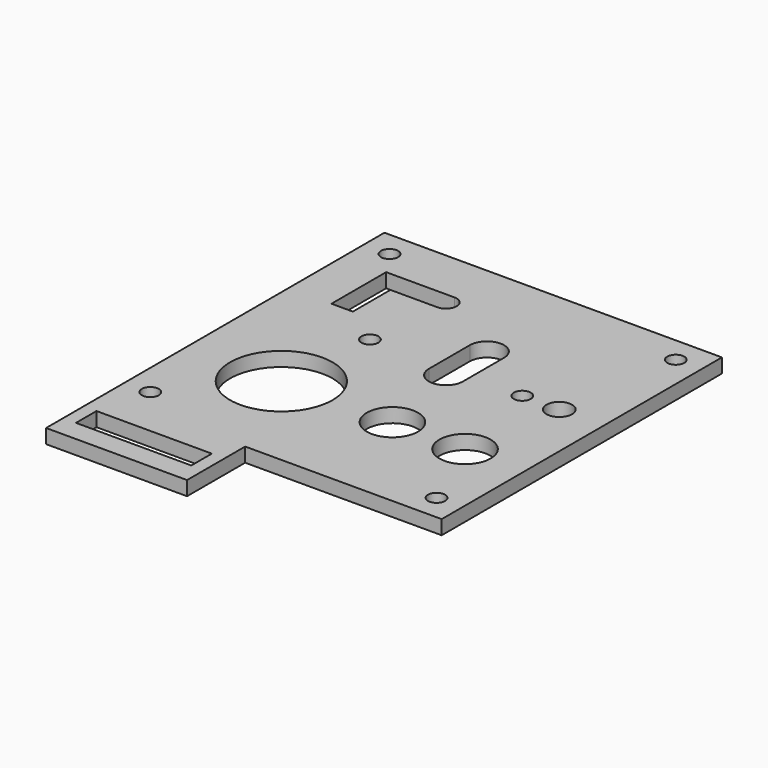
from build123d import *

# Parameters (mm, degrees)
F0_R     = 3
F0_R_2   = 18
F0_R_3   = 9
F0_R_4   = 4.5
F1_DEPTH = 5


with BuildPart() as f1:
    # F0 (on Top) → F1 (new body)
    with BuildSketch(Plane.XY):
        Polygon((52.5, 54.183173), (-66, 54.183173), (-66, -68.816827), (-66, -94.316827), (-16.5, -94.316827), (-16.5, -68.816827), (52.5, -68.816827), align=None)
        Polygon((-61.5, -86.816827), (-61.5, -77.816827), (-52.5, -77.816827), (-45, -77.816827), (-36, -77.816827), (-30, -77.816827), (-21, -77.816827), (-21, -86.816827), (-30, -86.816827), (-36, -86.816827), (-45, -86.816827), (-52.5, -86.816827), align=None, mode=Mode.SUBTRACT)
        with Locations((-57, -59.816827)):
            Circle(F0_R, mode=Mode.SUBTRACT)
        with Locations((-33, -32.316827)):
            Circle(F0_R_2, mode=Mode.SUBTRACT)
        with Locations((43.5, -59.816827)):
            Circle(F0_R, mode=Mode.SUBTRACT)
        with Locations((6, -32.316827)):
            Circle(F0_R_3, mode=Mode.SUBTRACT)
        with Locations((31.5, -32.316827)):
            Circle(F0_R_3, mode=Mode.SUBTRACT)
        with Locations((-29.488925, 2.183173)):
            Circle(F0_R, mode=Mode.SUBTRACT)
        with BuildLine():
            Line((-51, 12.183173), (-51, 36.183173))
            Line((-51, 36.183173), (-27, 36.183173))
            ThreePointArc((-27, 36.183173), (-23.25, 32.433173), (-27, 28.683173))
            Line((-27, 28.683173), (-43.5, 28.683173))
            Line((-43.5, 28.683173), (-43.5, 12.183173))
            Line((-43.5, 12.183173), (-51, 12.183173))
        make_face(mode=Mode.SUBTRACT)
        with Locations((-57, 45.183173)):
            Circle(F0_R, mode=Mode.SUBTRACT)
        with BuildLine():
            Line((-6, -1.316827), (-6, 16.683173))
            ThreePointArc((-6, 16.683173), (0, 22.683173), (6, 16.683173))
            Line((6, 16.683173), (6, -1.316827))
            ThreePointArc((6, -1.316827), (0, -7.316827), (-6, -1.316827))
        make_face(mode=Mode.SUBTRACT)
        with Locations((24, 2.183173)):
            Circle(F0_R, mode=Mode.SUBTRACT)
        with Locations((37, 2.183173)):
            Circle(F0_R_4, mode=Mode.SUBTRACT)
        with Locations((43.5, 45.183173)):
            Circle(F0_R, mode=Mode.SUBTRACT)
    extrude(amount=F1_DEPTH)


solid = f1.part
